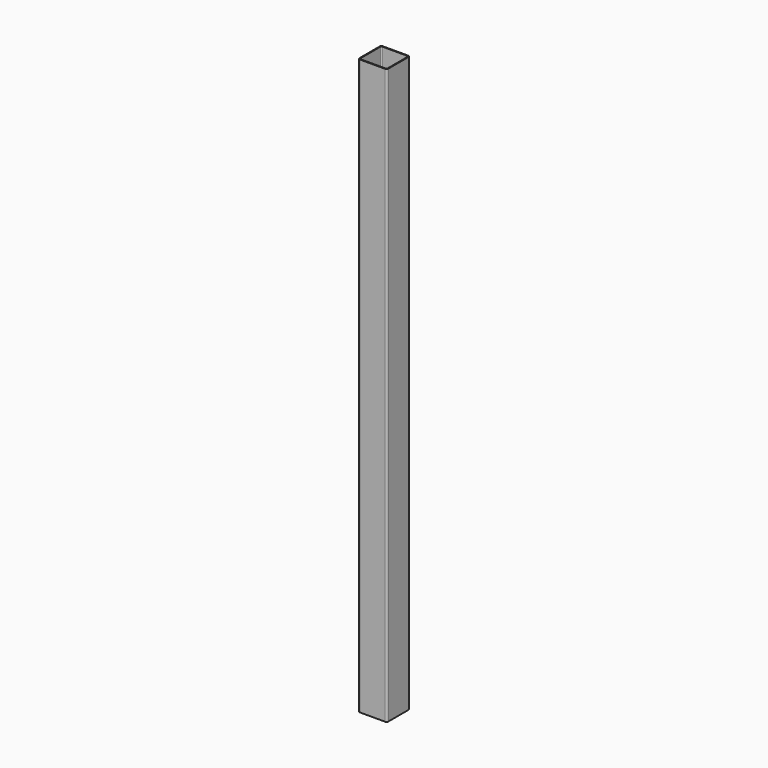
from build123d import *

# Parameters (mm, degrees)
F1_DEPTH = 1500


with BuildPart() as f1:
    # F0 (on Top) → F1 (new body)
    with BuildSketch(Plane.XY):
        with BuildLine():
            Line((31.411291, 33.797425), (-33.588709, 33.797425))
            ThreePointArc((-33.588709, 33.797425), (-37.124243, 32.332959), (-38.588709, 28.797425))
            Line((-38.588709, 28.797425), (-38.588709, -36.202575))
            ThreePointArc((-38.588709, -36.202575), (-37.124243, -39.738109), (-33.588709, -41.202575))
            Line((-33.588709, -41.202575), (31.411291, -41.202575))
            ThreePointArc((31.411291, -41.202575), (34.946825, -39.738109), (36.411291, -36.202575))
            Line((36.411291, -36.202575), (36.411291, 28.797425))
            ThreePointArc((36.411291, 28.797425), (34.946825, 32.332959), (31.411291, 33.797425))
        make_face()
        with BuildLine():
            Line((31.411291, -39.202575), (-33.588709, -39.202575))
            ThreePointArc((-33.588709, -39.202575), (-35.710029, -38.323896), (-36.588709, -36.202575))
            Line((-36.588709, -36.202575), (-36.588709, 28.797425))
            ThreePointArc((-36.588709, 28.797425), (-35.710029, 30.918745), (-33.588709, 31.797425))
            Line((-33.588709, 31.797425), (31.411291, 31.797425))
            ThreePointArc((31.411291, 31.797425), (33.532612, 30.918745), (34.411291, 28.797425))
            Line((34.411291, 28.797425), (34.411291, -36.202575))
            ThreePointArc((34.411291, -36.202575), (33.532612, -38.323896), (31.411291, -39.202575))
        make_face(mode=Mode.SUBTRACT)
    extrude(amount=F1_DEPTH)


solid = f1.part
